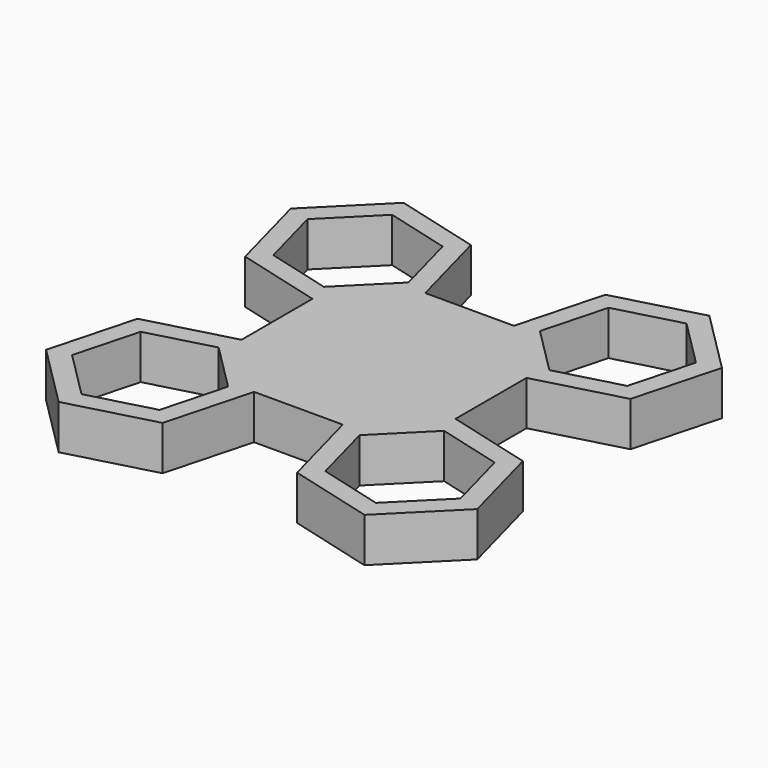
from build123d import *

# Parameters (mm, degrees)
F1_DEPTH = 25.4


with BuildPart() as f1:
    # F0 (on Top) → F1 (new body)
    with BuildSketch(Plane.XY):
        Polygon((-63.21651, 21.525792), (-27.295485, 57.446817), (-40.443493, 106.515849), (-89.512525, 119.663856), (-125.433549, 83.742832), (-112.285542, 34.6738), align=None)
        Polygon((-86.225523, 107.396598), (-49.423749, 97.535593), (-39.562743, 60.733819), (-66.503511, 33.79305), (-103.305285, 43.654056), (-113.166291, 80.45583), align=None, mode=Mode.SUBTRACT)
        Polygon((59.425539, -29.274208), (59.425539, 21.525792), (23.504515, 57.446817), (-27.295485, 57.446817), (-63.21651, 21.525792), (-63.21651, -29.274208), (-27.295485, -65.195232), (23.504515, -65.195232), align=None)
        Polygon((-40.443493, -114.264264), (-27.295485, -65.195232), (-63.21651, -29.274208), (-112.285542, -42.422215), (-125.433549, -91.491247), (-89.512525, -127.412272), align=None)
        Polygon((-113.166291, -88.204245), (-103.305285, -51.402471), (-66.503511, -41.541466), (-39.562743, -68.482234), (-49.423749, -105.284008), (-86.225523, -115.145014), align=None, mode=Mode.SUBTRACT)
        Polygon((108.494571, -42.422215), (59.425539, -29.274208), (23.504515, -65.195232), (36.652522, -114.264264), (85.721554, -127.412272), (121.642579, -91.491247), align=None)
        Polygon((35.771773, -68.482234), (62.712541, -41.541466), (99.514315, -51.402471), (109.375321, -88.204245), (82.434552, -115.145014), (45.632778, -105.284008), align=None, mode=Mode.SUBTRACT)
        Polygon((23.504515, 57.446817), (59.425539, 21.525792), (108.494571, 34.6738), (121.642579, 83.742832), (85.721554, 119.663856), (36.652522, 106.515849), align=None)
        Polygon((45.632778, 97.535593), (82.434552, 107.396598), (109.375321, 80.45583), (99.514315, 43.654056), (62.712541, 33.79305), (35.771773, 60.733819), align=None, mode=Mode.SUBTRACT)
    extrude(amount=F1_DEPTH)


solid = f1.part
